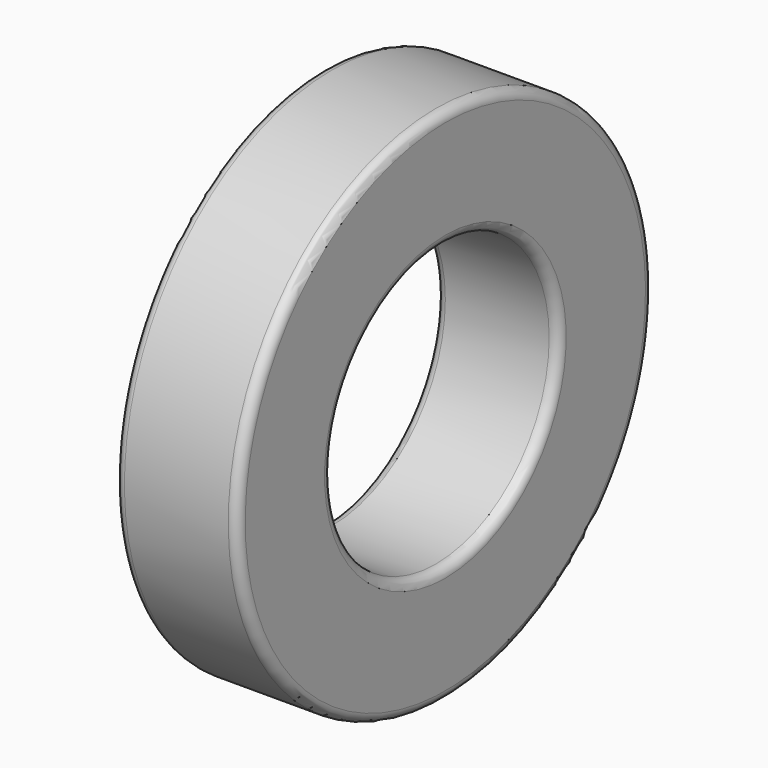
from build123d import *

# Parameters (mm, degrees)
F0_W = 13
F0_H = 12.5
F2_R = 1


with BuildPart() as f1:
    # F0 (on Front) → F1 (revolve)
    with BuildSketch(Plane.XZ):
        with Locations((6.5, 21.25)):
            Rectangle(F0_W, F0_H)
    revolve(axis=Axis((6.996951, 0, 0), (1, 0, 0)))

    # F2
    f2_edges = [f1.edges().sort_by_distance(p)[0] for p in [
        (13, 0, -27.5),
        (0, 0, -27.5),
        (6.5, 0, 27.5),
        (0, 0, -15),
        (13, 0, -15),
        (6.5, 0, 15),
    ]]
    fillet(f2_edges, radius=F2_R)


solid = f1.part
